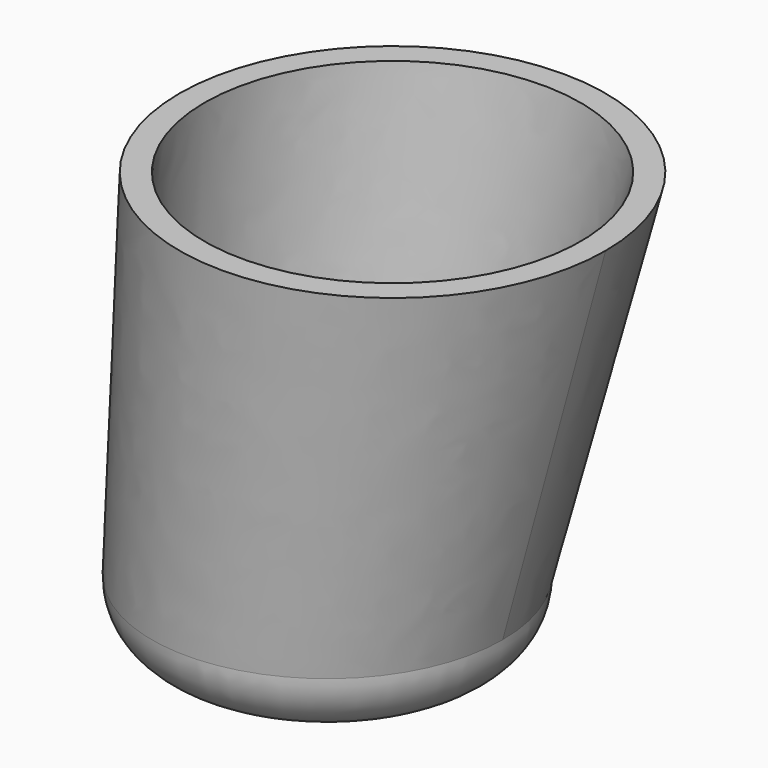
from build123d import *

# Parameters (mm, degrees)
SKETCH001_R = 14
SKETCH003_R = 17
SKETCH005_R = 15
SKETCH004_R = 12


with BuildPart() as part:
    # Sketch → Revolution (revolve)
    with BuildSketch(Plane.XZ):
        with BuildLine():
            Line((0, 5), (14, 5))
            ThreePointArc((9, 0), (12.535534, 1.464466), (14, 5))
            Line((0, 0), (9, 0))
            Line((0, 5), (0, 0))
        make_face()
    revolve(axis=Axis((0, 0, 0), (0, 0, 1)))

    # Sketch001 (on Face1 of Revolution) → AdditiveLoft section 0
    with BuildSketch(Plane(origin=(0, 0, 5), x_dir=(-1, 0, 0), z_dir=(0, 0, 1))):
        Circle(SKETCH001_R)
    # Sketch003 → AdditiveLoft section 1
    with BuildSketch(Plane.XY.offset(35)):
        with Locations((5.209445, 0)):
            Circle(SKETCH003_R)
    loft()

    # Sketch005 (on Face5 of AdditiveLoft) → SubtractiveLoft section 0
    with BuildSketch(Plane(origin=(0, 0, 35), x_dir=(-1, 0, 0), z_dir=(0, 0, 1))):
        with Locations((-5.209445, 0)):
            Circle(SKETCH005_R)
    # Sketch004 (on Face1 of Revolution) → SubtractiveLoft section 1
    with BuildSketch(Plane(origin=(0, 0, 7), x_dir=(-1, 0, 0), z_dir=(0, 0, 1))):
        Circle(SKETCH004_R)
    loft(mode=Mode.SUBTRACT)


solid = part.part
